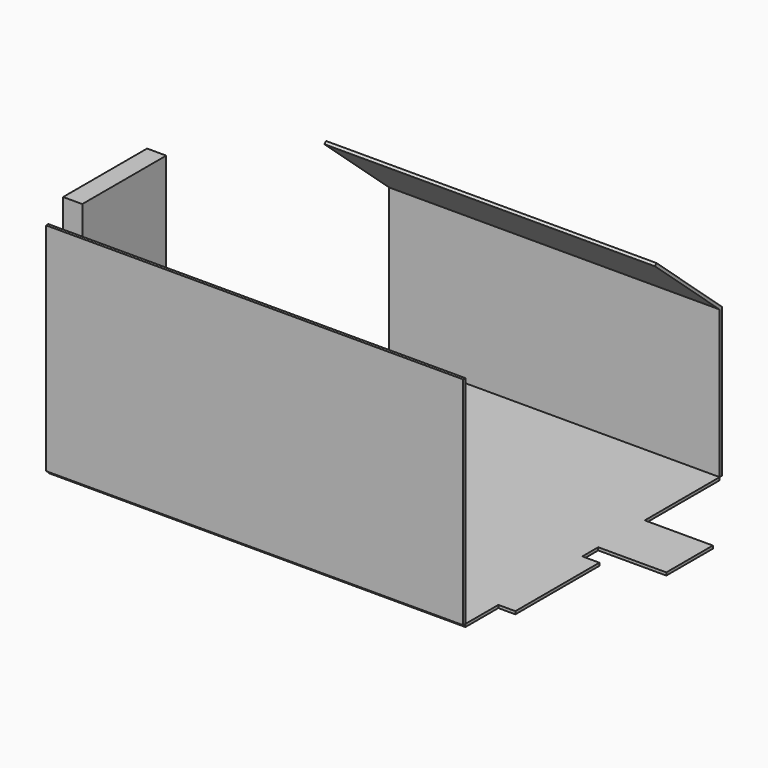
from build123d import *

# Parameters (mm, degrees)
F1_DEPTH = 25.4
F2_W     = 3733.8
F2_H     = 1936.75
F3_DEPTH = 25.4
F4_W     = 939.8
F4_H     = 1955.8
F5_DEPTH = 171.45
F7_DEPTH = 2959.1


with BuildPart() as f1:
    # F0 (on Top) → F1 (new body)
    with BuildSketch(Plane.XY):
        Polygon((2959.1, 2844.8), (0, 2844.8), (0, 1295.4), (-927.1, 1295.4), (-927.1, 355.6), (-774.7, 355.6), (-774.7, 0), (2959.1, 0), (2959.1, 368.3), (3111.5, 368.3), (3111.5, 1308.1), (2959.1, 1308.1), (2959.1, 1485.9), (3568.7, 1485.9), (3568.7, 2006.6), (2959.1, 2006.6), align=None)
    extrude(amount=F1_DEPTH)

    # F4 (on face) → F5 (join)
    with BuildSketch(Plane(origin=(-927.1, 0, 0), x_dir=(0, -1, 0), z_dir=(-1, 0, 0))):
        with Locations((-825.5, 1003.3)):
            Rectangle(F4_W, F4_H)
    extrude(amount=-F5_DEPTH)


with BuildPart() as f3:
    # F2 (on face) → F3 (new body)
    with BuildSketch(Plane.XZ):
        with Locations((1092.2, 993.775)):
            Rectangle(F2_W, F2_H)
    extrude(amount=F3_DEPTH)


with BuildPart() as f7:
    # F6 (on face) → F7 (new body)
    with BuildSketch(Plane.YZ.offset(2959.1)):
        Polygon((2844.8, 1346.2), (2844.8, 25.4), (2870.2, 25.4), (2870.2, 1357.7067170678), (2137.649720585, 2000.2946814669), (2120.9, 1981.2), align=None)
    extrude(amount=-F7_DEPTH)


solid = Compound([f1.part, f3.part, f7.part])
